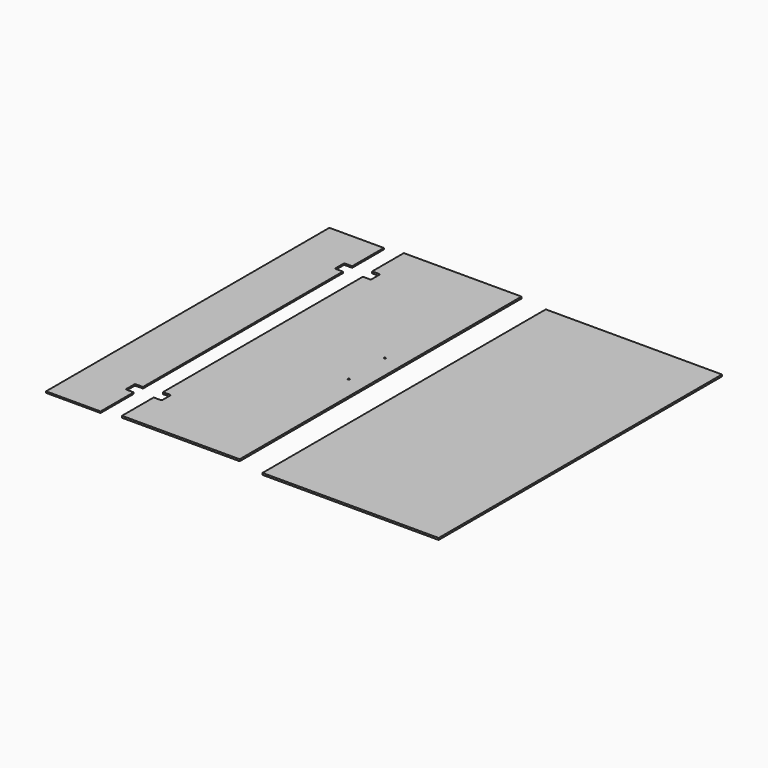
from build123d import *

# Parameters (mm, degrees)
F1_DEPTH = 8
F3_DEPTH = 25
F5_DEPTH = 10
F6_R     = 5
F7_DEPTH = 10.001
F8_W     = 970
F8_H     = 1950
F9_DEPTH = 10


with BuildPart() as f1:
    # F0 (on Top) → F1 (new body)
    with BuildSketch(Plane.XY):
        with BuildLine():
            Line((-7.710888, 0), (292.289112, 0))
            Line((292.289112, 0), (292.289112, 1950))
            Line((292.289112, 1950), (-2.710888, 1950))
            ThreePointArc((-2.710888, 1950), (-6.246421, 1948.535534), (-7.710888, 1945))
            Line((-7.710888, 1945), (-7.710888, 0))
        make_face()
    extrude(amount=F1_DEPTH)

    # F2 (on face) → F3 (cut)
    with BuildSketch(Plane.XY.offset(8)):
        with BuildLine():
            Line((292.289112, 1668), (292.289112, 1732))
            Line((292.289112, 1732), (253.289112, 1732))
            ThreePointArc((253.289112, 1732), (249.753579, 1730.535534), (248.289112, 1727))
            Line((248.289112, 1727), (248.289112, 1673))
            ThreePointArc((248.289112, 1673), (249.753579, 1669.464466), (253.289112, 1668))
            Line((253.289112, 1668), (292.289112, 1668))
        make_face()
        with BuildLine():
            Line((292.289112, 228), (292.289112, 292))
            Line((292.289112, 292), (253.289112, 292))
            ThreePointArc((253.289112, 292), (249.753579, 290.535534), (248.289112, 287))
            Line((248.289112, 287), (248.289112, 233))
            ThreePointArc((248.289112, 233), (249.753579, 229.464466), (253.289112, 228))
            Line((253.289112, 228), (292.289112, 228))
        make_face()
    extrude(amount=-F3_DEPTH, mode=Mode.SUBTRACT)


with BuildPart() as f5:
    # F4 (on Top) → F5 (new body)
    with BuildSketch(Plane.XY):
        with BuildLine():
            Line((1028.013587, 1977.993873), (380.013587, 1977.993873))
            Line((380.013587, 1977.993873), (380.013587, 1759.993873))
            Line((380.013587, 1759.993873), (419.013587, 1759.993873))
            ThreePointArc((419.013587, 1759.993873), (422.549121, 1758.529407), (424.013587, 1754.993873))
            Line((424.013587, 1754.993873), (424.013587, 1700.993873))
            ThreePointArc((424.013587, 1700.993873), (422.549121, 1697.458339), (419.013587, 1695.993873))
            Line((419.013587, 1695.993873), (380.013587, 1695.993873))
            Line((380.013587, 1695.993873), (380.013587, 319.993873))
            Line((380.013587, 319.993873), (419.013587, 319.993873))
            ThreePointArc((419.013587, 319.993873), (422.549121, 318.529407), (424.013587, 314.993873))
            Line((424.013587, 314.993873), (424.013587, 260.993873))
            ThreePointArc((424.013587, 260.993873), (422.549121, 257.458339), (419.013587, 255.993873))
            Line((419.013587, 255.993873), (380.013587, 255.993873))
            Line((380.013587, 255.993873), (380.013587, 37.993873))
            Line((380.013587, 37.993873), (1028.013587, 37.993873))
            Line((1028.013587, 37.993873), (1028.013587, 1977.993873))
        make_face()
    extrude(amount=-F5_DEPTH)

    # F6 (on face) → F7 (cut, through all)
    with BuildSketch(Plane.XY):
        with Locations((928.013587, 1162.993873)):
            Circle(F6_R)
        with Locations((928.013587, 912.993873)):
            Circle(F6_R)
    extrude(amount=-F7_DEPTH, mode=Mode.SUBTRACT)


with BuildPart() as f9:
    # F8 (on Top) → F9 (new body)
    with BuildSketch(Plane.XY):
        with Locations((1669.192419, 975)):
            Rectangle(F8_W, F8_H)
    extrude(amount=-F9_DEPTH)


solid = Compound([f1.part, f5.part, f9.part])
